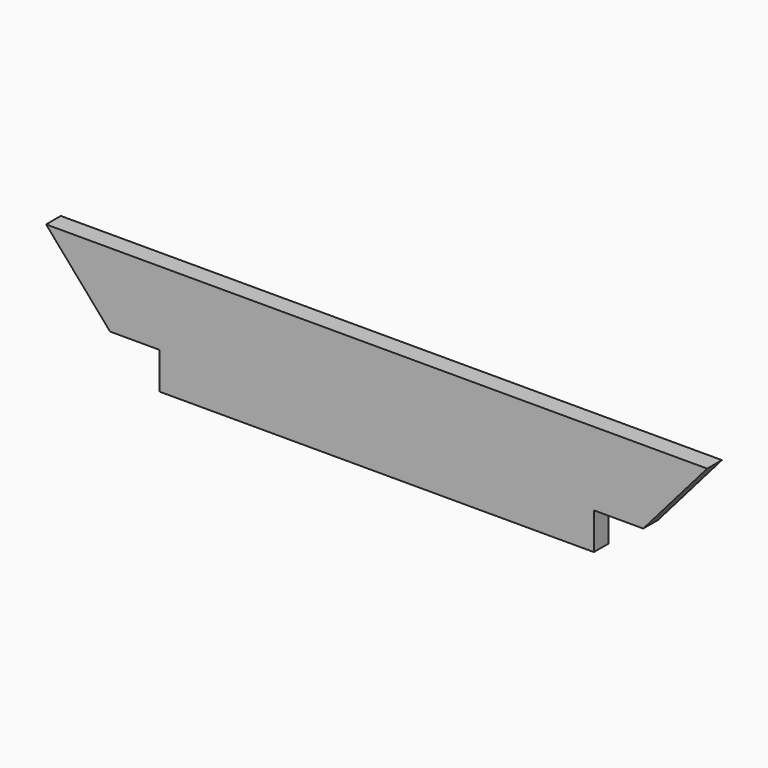
from build123d import *

# Parameters (mm, degrees)
F0_W     = 81
F0_H     = 19.05
F1_DEPTH = 3.175
F3_DEPTH = 3.175
F5_DEPTH = 25.4


with BuildPart() as f1:
    # F0 (on Front) → F1 (new body)
    with BuildSketch(Plane.XZ):
        Rectangle(F0_W, F0_H)
    extrude(amount=F1_DEPTH)

    # F2 (on face) → F3 (join)
    with BuildSketch(Plane.XZ.offset(3.175)):
        Polygon((-40.5, -9.525), (-40.5, 9.525), (-57.059912, 9.525), align=None)
        Polygon((57.059912, 9.525), (40.5, 9.525), (40.5, -9.525), align=None)
    extrude(amount=-F3_DEPTH)

    # F4 (on face) → F5 (cut)
    with BuildSketch(Plane.XZ.offset(3.175)):
        Polygon((-40.5, -9.525), (-37.5, -9.525), (-37.5, -3.175), (-46.019971, -3.175), align=None)
        Polygon((46.019971, -3.175), (37.5, -3.175), (37.5, -9.525), (40.5, -9.525), align=None)
    extrude(amount=-F5_DEPTH, mode=Mode.SUBTRACT)


solid = f1.part
